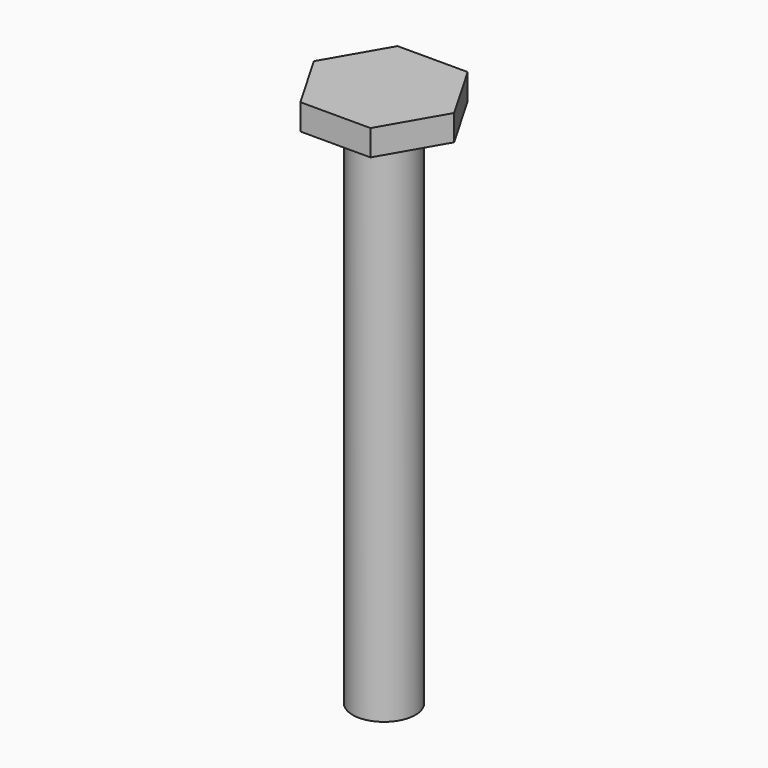
from build123d import *

# Parameters (mm, degrees)
F0_W     = 2
F0_H     = 3.5
F0_W_2   = 4.25
F0_H_2   = 36
F0_H_3   = 34
F3_DEPTH = 73.5


with BuildPart() as f1:
    # F0 (on Front) → F1 (revolve)
    with BuildSketch(Plane.XZ):
        Polygon((-4.25, 35), (0, 35), (0, 38.5), (-7.5, 38.5), (-7.5, 35), align=None)
        with Locations((-8.5, 36.75)):
            Rectangle(F0_W, F0_H)
        with Locations((-2.125, 17)):
            Rectangle(F0_W_2, F0_H_2)
        with Locations((-2.125, -18)):
            Rectangle(F0_W_2, F0_H_3)
    revolve(axis=Axis((0, 0, 36.75), (0, 0, 1)))

    # F2 (on face) → F3 (intersect, through all)
    with BuildSketch(Plane.XY.offset(38.5)):
        Polygon((4.75, -8.227241), (9.5, 0), (4.75, 8.227241), (-4.75, 8.227241), (-9.5, 0), (-4.75, -8.227241), align=None)
    extrude(amount=-F3_DEPTH, mode=Mode.INTERSECT)


solid = f1.part
